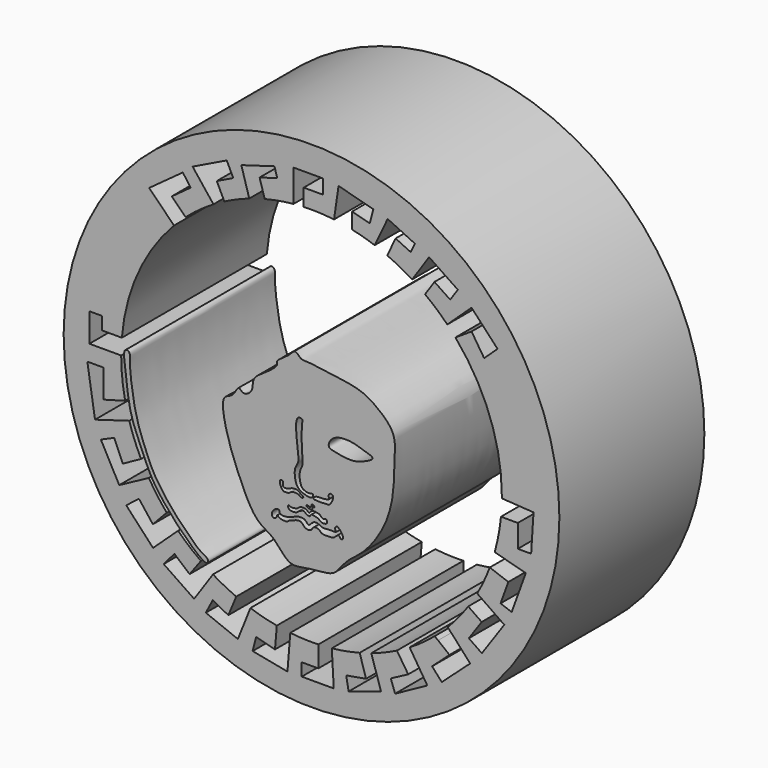
from build123d import *

# Parameters (mm, degrees)
F0_R     = 34.1949765135
F0_R_2   = 32.7536440746
F1_DEPTH = 25


with BuildPart() as f1:
    # F0 (on Front) → F1 (new body)
    with BuildSketch(Plane.XZ):
        with Locations((-32.7967256308, 36.7137230933)):
            Circle(F0_R)
        with Locations((-32.7967256308, 36.7137230933)):
            Circle(F0_R_2, mode=Mode.SUBTRACT)
        with Locations((-32.7967256308, 36.7137230933)):
            Circle(F0_R_2)
        with BuildLine():
            ThreePointArc((-12.9458860512, 53.9010168476), (-8.1929322363, 45.8849961355), (-6.5391762666, 36.7137230933))
            ThreePointArc((-6.5391762666, 36.7137230933), (-6.5395210878, 36.5791563783), (-6.5405555424, 36.4445931976))
            Line((-6.5405555424, 36.4445931976), (-2.1720672958, 36.1668281257))
            Line((-2.1720672958, 36.1668281257), (-2.4984774645, 31.0332849622))
            Line((-2.4984774645, 31.0332849622), (-4.3382442508, 31.0332849622))
            Line((-4.3382442508, 31.0332849622), (-4.3382442508, 34.1763430074))
            Line((-4.3382442508, 34.1763430074), (-6.662062807, 34.1763430074))
            ThreePointArc((-6.662062807, 34.1763430074), (-6.990579769, 31.8658643525), (-7.5229469318, 29.5936803343))
            Line((-7.5229469318, 29.5936803343), (-3.2360210522, 28.4420203526))
            Line((-3.2360210522, 28.4420203526), (-5.1859638011, 23.078868908))
            Line((-5.1859638011, 23.078868908), (-6.7154592647, 23.634965192))
            Line((-6.7154592647, 23.634965192), (-5.6438855827, 26.5822373331))
            Line((-5.6438855827, 26.5822373331), (-8.2039227659, 27.5130195408))
            ThreePointArc((-8.2039227659, 27.5130195408), (-8.9988383065, 25.6178023332), (-9.9395436319, 23.790560567))
            Line((-9.9395436319, 23.790560567), (-6.2026623989, 21.2010561993))
            Line((-6.2026623989, 21.2010561993), (-9.2989061714, 16.7329056952))
            Line((-9.2989061714, 16.7329056952), (-11.0925380819, 17.9758185352))
            Line((-11.0925380819, 17.9758185352), (-9.3234190717, 20.5288119614))
            Line((-9.3234190717, 20.5288119614), (-11.1766436054, 21.8130200283))
            ThreePointArc((-11.1766436054, 21.8130200283), (-12.5225438969, 20.0279071518), (-14.0154172607, 18.3637543053))
            Line((-14.0154172607, 18.3637543053), (-13.302420519, 17.6172430732))
            Line((-13.302420519, 17.6172430732), (-10.9127026212, 14.965637044))
            Line((-10.9127026212, 14.965637044), (-14.8275454959, 11.4374469654))
            Line((-14.8275454959, 11.4374469654), (-16.1638706923, 12.9202194512))
            Line((-16.1638706923, 12.9202194512), (-13.7603031471, 15.0863965973))
            Line((-13.7603031471, 15.0863965973), (-15.3330070898, 16.3326896727))
            Line((-15.3330070898, 16.3326896727), (-15.8072759228, 16.6932960941))
            ThreePointArc((-15.8072759228, 16.6932960941), (-17.4850135025, 15.3827510031), (-19.2634064807, 14.2124304328))
            Line((-19.2634064807, 14.2124304328), (-16.8166905642, 10.3682847694))
            Line((-16.8166905642, 10.3682847694), (-21.2677381933, 7.935045287))
            Line((-21.2677381933, 7.935045287), (-21.8612123281, 9.596769698))
            Line((-21.8612123281, 9.596769698), (-19.4576457143, 10.8727375045))
            Line((-19.4576457143, 10.8727375045), (-21.015693657, 13.2474454966))
            ThreePointArc((-21.015693657, 13.2474454966), (-22.7570808568, 12.4513153103), (-24.551854668, 11.7842024116))
            Line((-24.551854668, 11.7842024116), (-23.1965258718, 7.5492872857))
            Line((-23.1965258718, 7.5492872857), (-27.6817677887, 6.1138446977))
            Line((-27.6817677887, 6.1138446977), (-28.0036590993, 7.9647181556))
            Line((-28.0036590993, 7.9647181556), (-25.2736825496, 8.4394970909))
            Line((-25.2736825496, 8.4394970909), (-26.1521492418, 11.3107999697))
            ThreePointArc((-26.1521492418, 11.3107999697), (-28.0613112726, 10.8867072094), (-29.9967428847, 10.6058891112))
            Line((-29.9967428847, 10.6058891112), (-29.7287367284, 5.8174594305))
            Line((-29.7287367284, 5.8174594305), (-34.1453254223, 5.8174594305))
            Line((-34.1453254223, 5.8174594305), (-34.1453254223, 7.5641319712))
            Line((-34.1453254223, 7.5641319712), (-31.8516096963, 7.5641319712))
            Line((-31.8516096963, 7.5641319712), (-31.8516096963, 10.473188524))
            ThreePointArc((-31.8516096963, 10.473188524), (-33.7911474702, 10.4750107808), (-35.7252595021, 10.6199961081))
            Line((-35.7252595021, 10.6199961081), (-36.1165702343, 5.7925069705))
            Line((-36.1165702343, 5.7925069705), (-40.9182250916, 6.7195070139))
            Line((-40.9182250916, 6.7195070139), (-40.4333472252, 8.5871834308))
            Line((-40.4333472252, 8.5871834308), (-37.8382913768, 7.913466543))
            Line((-37.8382913768, 7.913466543), (-37.5853974553, 10.8965288079))
            ThreePointArc((-37.5853974553, 10.8965288079), (-39.4234631249, 11.3061405873), (-41.2274438302, 11.8464375709))
            Line((-41.2274438302, 11.8464375709), (-42.9535470903, 7.5142271817))
            Line((-42.9535470903, 7.5142271817), (-47.3793707976, 9.2776292429))
            Line((-47.3793707976, 9.2776292429), (-46.4219413698, 11.1073832959))
            Line((-46.4219413698, 11.1073832959), (-44.2760288715, 9.9845221266))
            Line((-44.2760288715, 9.9845221266), (-43.1815581734, 12.5970452194))
            ThreePointArc((-43.1815581734, 12.5970452194), (-44.8149768282, 13.3680481883), (-46.3915254221, 14.2495223008))
            Line((-46.3915254221, 14.2495223008), (-48.9920452237, 10.4336664081))
            Line((-48.9920452237, 10.4336664081), (-53.1931605212, 13.2967419086))
            Line((-53.1931605212, 13.2967419086), (-51.7118647695, 15.0249209255))
            Line((-51.7118647695, 15.0249209255), (-49.6158562601, 13.2283428684))
            Line((-49.6158562601, 13.2283428684), (-48.0536680635, 15.3435427895))
            ThreePointArc((-48.0536680635, 15.3435427895), (-49.6811814234, 16.6046691325), (-51.2048782248, 17.9894389498))
            Line((-51.2048782248, 17.9894389498), (-54.6562559903, 14.7753963247))
            Line((-54.6562559903, 14.7753963247), (-58.3576673641, 18.7501316989))
            Line((-58.3576673641, 18.7501316989), (-56.6025488079, 20.1152246445))
            Line((-56.6025488079, 20.1152246445), (-54.6812079847, 17.6449306309))
            Line((-54.6812079847, 17.6449306309), (-52.774364751, 19.6739803196))
            ThreePointArc((-52.774364751, 19.6739803196), (-54.0759133064, 21.3301256441), (-55.2405247964, 23.0852683892))
            Line((-55.2405247964, 23.0852683892), (-59.3223683536, 20.8887532353))
            Line((-59.3223683536, 20.8887532353), (-61.8583832738, 25.6014983966))
            Line((-61.8583832738, 25.6014983966), (-60.0210390985, 26.4032483101))
            Line((-60.0210390985, 26.4032483101), (-58.8233210146, 23.6584767699))
            Line((-58.8233210146, 23.6584767699), (-56.3163112071, 25.0394782385))
            ThreePointArc((-56.3163112071, 25.0394782385), (-57.2156356771, 27.0609654167), (-57.9415845847, 29.1509876888))
            Line((-57.9415845847, 29.1509876888), (-62.6629367471, 27.7536232024))
            Line((-62.6629367471, 27.7536232024), (-63.7215748429, 34.4583652914))
            Line((-63.7215748429, 34.4583652914), (-61.4631399512, 34.4583652914))
            Line((-61.4631399512, 34.4583652914), (-61.4631399512, 30.576672405))
            Line((-61.4631399512, 30.576672405), (-58.5089978876, 31.3903826007))
            ThreePointArc((-58.5089978876, 31.3903826007), (-58.9178927147, 34.0409850245), (-59.0542743658, 36.7194712078))
            Line((-59.0542743658, 36.7194712078), (-63.4392723441, 36.7194712078))
            Line((-63.4392723441, 36.7194712078), (-63.4392723441, 40.6690761447))
            Line((-63.4392723441, 40.6690761447), (-61.6748668253, 40.6690761447))
            Line((-61.6748668253, 40.6690761447), (-61.6748668253, 38.9046706259))
            Line((-61.6748668253, 38.9046706259), (-58.9627082708, 38.9046706259))
            ThreePointArc((-58.9627082708, 38.9046706259), (-56.7324686325, 47.5090510441), (-51.7592851425, 54.8763285059))
            Line((-51.7592851425, 54.8763285059), (-55.200556481, 58.3204711803))
            Line((-55.200556481, 58.3204711803), (-50.5542003778, 61.7110594841))
            Line((-50.5542003778, 61.7110594841), (-49.4651794434, 60.2186992764))
            Line((-49.4651794434, 60.2186992764), (-52.0764999092, 58.313138783))
            Line((-52.0764999092, 58.313138783), (-50.1641393275, 56.4071697215))
            ThreePointArc((-50.1641393275, 56.4071697215), (-48.3086086029, 57.8995765165), (-46.3255045006, 59.2177458648))
            Line((-46.3255045006, 59.2177458648), (-49.1968827695, 62.8634490413))
            Line((-49.1968827695, 62.8634490413), (-44.4910109347, 65.1434195328))
            Line((-44.4910109347, 65.1434195328), (-43.5953817757, 63.2948359437))
            Line((-43.5953817757, 63.2948359437), (-45.8657890558, 62.1948353946))
            Line((-45.8657890558, 62.1948353946), (-44.8279442318, 60.0527178785))
            ThreePointArc((-44.8279442318, 60.0527178785), (-43.133837622, 60.8508938946), (-41.3871490509, 61.5262909586))
            Line((-41.3871490509, 61.5262909586), (-42.4781292677, 65.2296096087))
            Line((-42.4781292677, 65.2296096087), (-37.9126475063, 66.5745790138))
            Line((-37.9126475063, 66.5745790138), (-37.5259921614, 65.2620822996))
            Line((-37.5259921614, 65.2620822996), (-39.9600294014, 64.5450264028))
            Line((-39.9600294014, 64.5450264028), (-39.2585181415, 62.1637552378))
            ThreePointArc((-39.2585181415, 62.1637552378), (-37.2835981417, 62.5850754677), (-35.2821404363, 62.8533790179))
            Line((-35.2821404363, 62.8533790179), (-35.2821404363, 67.2763214144))
            Line((-35.2821404363, 67.2763214144), (-31.1859305948, 67.2763214144))
            Line((-31.1859305948, 67.2763214144), (-31.1859305948, 65.3001889586))
            Line((-31.1859305948, 65.3001889586), (-33.867828548, 65.3001889586))
            Line((-33.867828548, 65.3001889586), (-33.867828548, 62.9494170454))
            ThreePointArc((-33.867828548, 62.9494170454), (-31.7762767809, 62.9514360797), (-29.6911997265, 62.7869777323))
            Line((-29.6911997265, 62.7869777323), (-29.0686432272, 67.0645982027))
            Line((-29.0686432272, 67.0645982027), (-24.2694579065, 65.7942220569))
            Line((-24.2694579065, 65.7942220569), (-24.7649760555, 63.9222698524))
            Line((-24.7649760555, 63.9222698524), (-27.1936658116, 64.5651601193))
            Line((-27.1936658116, 64.5651601193), (-27.1936658116, 62.3664932999))
            ThreePointArc((-27.1936658116, 62.3664932999), (-25.6240084727, 61.9726032581), (-24.0815973647, 61.482765019))
            Line((-24.0815973647, 61.482765019), (-22.2933217883, 65.2620822996))
            Line((-22.2933217883, 65.2620822996), (-18.5392699624, 63.4857616854))
            Line((-18.5392699624, 63.4857616854), (-19.1168347127, 62.2651441977))
            Line((-19.1168347127, 62.2651441977), (-21.1958804649, 63.2488950884))
            Line((-21.1958804649, 63.2488950884), (-22.3524104995, 60.8047002434))
            ThreePointArc((-22.3524104995, 60.8047002434), (-20.6010427418, 59.9672006285), (-18.916338573, 59.0025937183))
            Line((-18.916338573, 59.0025937183), (-16.5766458958, 62.4771378934))
            Line((-16.5766458958, 62.4771378934), (-12.6148731284, 59.809354649))
            Line((-12.6148731284, 59.809354649), (-13.6633282611, 58.2523537191))
            Line((-13.6633282611, 58.2523537191), (-15.8335558702, 59.7137441601))
            Line((-15.8335558702, 59.7137441601), (-17.1314086546, 57.7863769994))
            ThreePointArc((-17.1314086546, 57.7863769994), (-15.5471046975, 56.5104267651), (-14.066331357, 55.1156585611))
            Line((-14.066331357, 55.1156585611), (-10.718818754, 58.2425631583))
            Line((-10.718818754, 58.2425631583), (-7.1312061403, 54.4018388682))
            Line((-7.1312061403, 54.4018388682), (-8.9801826624, 52.6747137242))
            Line((-8.9801826624, 52.6747137242), (-10.718818754, 55.3489364684))
            Line((-10.718818754, 55.3489364684), (-12.9458860512, 53.9010168476))
        make_face(mode=Mode.SUBTRACT)
    extrude(amount=F1_DEPTH)


with BuildPart() as f1b:
    # F0 (on Front) → F1, piece 2 (new body)
    with BuildSketch(Plane.XZ):
        with BuildLine():
            add(Edge.make_bspline(
                [(-57.9822808504, 37.5016778708), (-58.1168935723, 37.6492809264), (-58.8855050451, 37.7713758907), (-58.4028495271, 34.877948286), (-58.1621445033, 32.2826350432), (-57.6660737268, 29.6695744331), (-56.6997068893, 27.3113254185), (-55.6976629614, 25.0630160265), (-54.5191115676, 22.2787455027), (-50.6099020178, 17.7194639713), (-47.1228553298, 14.7996385895), (-46.9808014833, 15.9849277901), (-48.2220691184, 16.3989989411), (-49.9024312315, 18.1995399342), (-51.6349373042, 19.7777836772), (-54.2338614689, 23.1429440708), (-55.2538052772, 25.2886950598), (-56.727444624, 28.9590278203), (-57.2921205277, 31.4233101583), (-57.716311795, 34.2218649653), (-57.8869672816, 36.1740918611), (-57.7774345061, 37.2770635406), (-57.9822808504, 37.5016778708)],
                knots=[0, 0, 0, 0, 0.0230852232, 0.072862592, 0.1276976424, 0.1793407312, 0.2303863944, 0.2797939147, 0.334821419, 0.417146937, 0.4781276268, 0.4997383602, 0.534292142, 0.5840707965, 0.634829385, 0.6995950934, 0.7507579179, 0.8132503276, 0.865409986, 0.9187417021, 0.9648701586, 1, 1, 1, 1], degree=3))
        make_face()
    extrude(amount=F1_DEPTH)


with BuildPart() as f1c:
    # F0 (on Front) → F1, piece 3 (new body)
    with BuildSketch(Plane.XZ):
        with BuildLine():
            add(Edge.make_bspline(
                [(-21.5745288879, 39.4650399685), (-21.1795454561, 38.5399337596), (-21.4157349087, 36.2146815264), (-21.3676152952, 31.3859713194), (-23.011632842, 26.800680971), (-25.7681212269, 23.4159995117), (-27.6695314862, 22.2281273949), (-29.0136424946, 20.5704084252), (-29.9178866513, 19.4255645273), (-33.3311647851, 19.3884013139), (-35.9665803851, 18.542325867), (-37.7881983734, 21.4486887935), (-39.7597219758, 22.277147973), (-41.2641100441, 23.9693377514), (-42.9335004763, 27.6849185713), (-44.5479789574, 31.7739807301), (-45.4256322233, 36.6011597829), (-43.557500045, 36.5929194481), (-42.8990267144, 38.5335644051), (-42.239432329, 37.2830403415), (-40.8114067244, 38.2153867809), (-40.9874123175, 39.508084105), (-40.3365873059, 40.4448379309), (-38.6973094314, 41.4098406552), (-37.3366869729, 42.5496847049), (-37.7828257491, 43.1324329789), (-35.9259369138, 44.0700771393), (-35.0414473632, 45.3935709705), (-34.3250855496, 44.2304356897), (-33.2018295135, 44.3457644644), (-31.0693055053, 44.0342622095), (-28.3780545213, 43.6707572476), (-25.8486137098, 43.2357217884), (-23.6752093643, 41.9303542086), (-21.970734153, 40.3930078814), (-21.5745288879, 39.4650399685)],
                knots=[0, 0, 0, 0, 0.0363854623, 0.0813033961, 0.1267672052, 0.1687541576, 0.1993837951, 0.2283917656, 0.2520994109, 0.289080653, 0.3215871455, 0.3567600275, 0.3864049615, 0.4162054819, 0.4568651777, 0.5023289948, 0.5434193449, 0.5668566845, 0.591097867, 0.6087434787, 0.6318126685, 0.6542821308, 0.6750265581, 0.7042114107, 0.7297743316, 0.7426205234, 0.7708864575, 0.7941527599, 0.8135515625, 0.8343869122, 0.864330442, 0.8984903326, 0.9308772226, 0.9635019837, 1, 1, 1, 1], degree=3))
        make_face()
        with BuildLine():
            add(Edge.make_bspline(
                [(-37.7450846136, 25.0003207475), (-37.9798654227, 24.8821459261), (-38.3397074463, 24.452778237), (-38.1912443977, 23.7072384952), (-37.5791050688, 23.9298943851), (-37.569790394, 24.4831844223), (-37.2732518674, 24.0631042151), (-36.8799385616, 23.9955539414), (-36.6404731792, 23.9604554374), (-36.5200348193, 23.9735800779), (-36.1596318047, 23.9347045564), (-36.0037949704, 24.1712552506), (-35.4858773196, 24.3441866474), (-35.0138220931, 24.5498915396), (-34.4016983999, 24.7008314584), (-34.0239492999, 24.4284784484), (-33.8457353751, 24.1425406979), (-33.4623717082, 23.931795019), (-33.1152676899, 23.9416721443), (-32.7992010898, 24.0096157978), (-32.6992327086, 24.3804127481), (-32.3063270334, 24.6141737943), (-31.8717998305, 24.499817583), (-31.6465009581, 24.3561613358), (-31.447822529, 24.109685215), (-31.0011036831, 24.014302887), (-30.5214923173, 24.0365080046), (-29.7114020887, 24.0658845521), (-29.5630457236, 24.2846639366), (-29.4256582954, 24.3805167599), (-29.0145946602, 24.8142634091), (-28.8524551687, 24.2834888465), (-28.5083975256, 24.2481912344), (-28.3151868547, 24.6953365105), (-29.1182264811, 25.6936822656), (-29.4357226821, 25.593896157), (-29.6508260107, 25.2386245477), (-29.1779711809, 24.8091452613), (-30.2359874028, 24.9235653439), (-30.8736980943, 24.8502918759), (-31.267260726, 24.8025432639), (-31.714233273, 25.0967210244), (-32.592019065, 25.3020187156), (-33.1928811737, 24.2238303667), (-33.6737962232, 25.2811951281), (-34.9077938776, 25.0596460003), (-35.2069521179, 24.8956557826), (-35.5239671312, 24.7103011612), (-36.099804016, 24.5751415112), (-36.5904476757, 24.4722586293), (-37.2774949584, 24.596220717), (-37.1847602174, 25.1332984263), (-37.5650476756, 25.0909407308), (-37.7450846136, 25.0003207475)],
                knots=[0, 0, 0, 0, 0.0260771344, 0.0478776216, 0.0678238242, 0.0852405662, 0.1018480674, 0.1211100921, 0.135075223, 0.1455086603, 0.162195495, 0.1771948064, 0.1983956246, 0.2202698677, 0.2429226296, 0.2619766597, 0.2790437821, 0.2979425059, 0.3153384994, 0.3309879651, 0.3482716603, 0.3673255959, 0.3865051417, 0.4016117665, 0.4176475252, 0.4367225426, 0.4581611221, 0.48405697, 0.4978021613, 0.5105584141, 0.529942067, 0.5482322891, 0.5630887657, 0.5808089993, 0.6127218465, 0.6275222286, 0.6448059484, 0.6619024274, 0.6874785954, 0.7128175733, 0.7302065684, 0.7514073365, 0.7779013426, 0.8046224562, 0.8300397153, 0.8613398726, 0.8787566386, 0.8960048289, 0.9184048886, 0.9402123951, 0.9625108801, 0.9800032744, 1, 1, 1, 1], degree=3))
        make_face(mode=Mode.SUBTRACT)
        with BuildLine():
            add(Edge.make_bspline(
                [(-36.0408313572, 25.9362626821), (-36.0629696816, 25.8268395434), (-35.927099245, 25.4539372715), (-35.1786410754, 25.4437180692), (-34.8055959503, 25.5145718463), (-34.5401565714, 25.8125674571), (-34.3176739633, 25.8929466966), (-34.2047916304, 25.9515694691), (-33.7764571313, 26.1125076181), (-33.5941936782, 25.7634989407), (-33.3044323242, 25.6522447399), (-33.0846034701, 25.6691248779), (-33.0057911555, 25.6238495314), (-32.8948532603, 25.9841098401), (-32.5165725291, 25.9166675973), (-31.8628839829, 25.8211051109), (-31.5249313882, 25.4337377967), (-31.1651346741, 25.3850374014), (-30.6662305613, 25.4588454622), (-30.6105972656, 25.777152715), (-30.8055252732, 26.1752968153), (-31.2147310245, 25.8220698409), (-31.5296682353, 26.2109096177), (-31.7602934376, 26.3783618781), (-32.1952818075, 26.4375585383), (-32.4677433344, 26.4900822219), (-32.8756902686, 26.3137341513), (-32.9820163944, 26.1741958011), (-33.1784309262, 25.9384405038), (-33.3717981531, 26.2899255735), (-33.6643177192, 26.3842840997), (-33.9582721383, 26.3866593835), (-34.3013606712, 26.4588379593), (-34.5937252634, 26.1483121181), (-34.8383947485, 25.9867751648), (-35.0824598956, 25.9742177929), (-35.2573968485, 25.9061470734), (-35.5124563193, 25.927440919), (-35.5640739745, 25.9139911548), (-35.7709184525, 25.9816058649), (-35.9279339925, 26.107715809), (-36.0264752884, 26.0072204516), (-36.0408313572, 25.9362626821)],
                knots=[0, 0, 0, 0, 0.0289759678, 0.06712991, 0.0957275283, 0.1238734321, 0.1452962588, 0.1622894334, 0.1906639111, 0.2172369937, 0.2425953411, 0.2635901995, 0.2744200764, 0.2987858599, 0.3253588814, 0.3626935177, 0.3944566292, 0.4217975807, 0.4524359702, 0.4764371437, 0.5024179979, 0.5305155938, 0.5598811533, 0.5850664787, 0.6145333246, 0.6393612696, 0.6685987135, 0.6889618084, 0.7099333648, 0.7352916805, 0.7606500279, 0.7855200019, 0.8114886828, 0.840446934, 0.8653169862, 0.8871641054, 0.907653242, 0.9299792551, 0.940808771, 0.9616864852, 0.9812099153, 1, 1, 1, 1], degree=3))
        make_face(mode=Mode.SUBTRACT)
        with BuildLine():
            add(Edge.make_bspline(
                [(-37.1634699404, 28.5505466163), (-37.1647139254, 28.4176473179), (-37.1129340317, 28.0517920632), (-36.6909519116, 27.3929598784), (-36.214438325, 27.5562448232), (-35.9440349419, 27.4480127372), (-35.5747271068, 27.8519476706), (-35.097842549, 27.8697172814), (-34.7412984703, 27.8639360914), (-34.4156447252, 27.7228883811), (-34.322578919, 27.5021486649), (-33.7868451095, 27.5952674059), (-34.1146957763, 27.9194653767), (-34.3064668948, 27.9459158494), (-34.5906660947, 28.2548897408), (-34.9028970375, 28.3333337472), (-35.5121665933, 28.3105065437), (-35.7652944037, 28.109195024), (-36.2749442376, 27.9702516776), (-36.8043999348, 27.9726927382), (-36.692268159, 28.5992883549), (-36.7961854135, 28.792856132), (-37.1387812452, 28.7882098707), (-37.1626671162, 28.6363151579), (-37.1634699404, 28.5505466163)],
                knots=[0, 0, 0, 0, 0.0530015307, 0.1156190266, 0.164209967, 0.2018486264, 0.2540847226, 0.3054635053, 0.3507662916, 0.3935514405, 0.4286141422, 0.47273892, 0.5132074481, 0.5483058689, 0.5944192189, 0.6379181588, 0.6947990142, 0.7375843845, 0.7925070862, 0.8399803902, 0.8940319155, 0.9270981205, 0.9657946728, 1, 1, 1, 1], degree=3))
        make_face(mode=Mode.SUBTRACT)
        with BuildLine():
            add(Edge.make_bspline(
                [(-33.4844514728, 26.9001442939), (-33.5313669483, 26.862460417), (-33.4346821407, 26.5176703245), (-32.5361102847, 26.5162818765), (-32.6725592392, 26.8362012702), (-32.5478738763, 26.9568815038), (-32.3388444458, 26.8832550421), (-32.5028784031, 27.2660696892), (-32.8101684497, 27.2151566701), (-32.7882231041, 26.963664027), (-32.9172671834, 26.7775344596), (-33.1525904373, 26.8087446367), (-33.4331671224, 26.9413373784), (-33.4844514728, 26.9001442939)],
                knots=[0, 0, 0, 0, 0.0949872292, 0.2478882433, 0.331144192, 0.3984828781, 0.4628869757, 0.5588982926, 0.6445900121, 0.7289163896, 0.8078473577, 0.8961673459, 1, 1, 1, 1], degree=3))
        make_face(mode=Mode.SUBTRACT)
        with BuildLine():
            add(Edge.make_bspline(
                [(-34.6861667931, 37.0585247874), (-35.0946194936, 36.6265945578), (-34.7639783478, 33.8509375584), (-34.6473924639, 32.9359544381), (-34.5244311996, 31.7508606962), (-34.9290039309, 31.1600044335), (-35.145947977, 30.6603014399), (-35.0994004991, 29.4805690427), (-34.7129587769, 28.4252014048), (-33.6389393905, 28.028500287), (-32.7306913415, 27.8289408585), (-32.4415155924, 28.598100572), (-33.0666634598, 28.3913801461), (-33.5802508774, 28.4616058272), (-34.1203249395, 28.6909466683), (-34.3749058968, 29.3353646983), (-34.5275775461, 30.3921405369), (-34.179407483, 31.2502874346), (-33.989758819, 31.6238819127), (-34.0771495469, 32.7467310564), (-34.1786727632, 34.4231570061), (-34.1847070168, 36.4707361493), (-33.9301324849, 37.1384733881), (-34.5074316679, 37.2475334624), (-34.6861667931, 37.0585247874)],
                knots=[0, 0, 0, 0, 0.0831558191, 0.1348992207, 0.1839752247, 0.2229937986, 0.2574257473, 0.30848762, 0.3577486348, 0.4079517761, 0.4513981004, 0.4835966035, 0.5149643765, 0.550747199, 0.5854020948, 0.6237992411, 0.6733459804, 0.7180823229, 0.7480741991, 0.7961714693, 0.8606107374, 0.929025021, 0.9636117824, 1, 1, 1, 1], degree=3))
        make_face(mode=Mode.SUBTRACT)
        with BuildLine():
            add(Edge.make_bspline(
                [(-32.2742238641, 28.2711610198), (-32.4408443274, 28.1849170406), (-32.6781363028, 27.867291994), (-32.0514005923, 27.8701081461), (-31.784780087, 27.8497528358), (-31.2259520171, 27.8340852502), (-30.7745350668, 27.9187566258), (-30.3298258869, 27.8550468577), (-30.1678069396, 28.1734024572), (-29.8839685076, 28.4563453942), (-29.7613128724, 29.1910107717), (-29.9993579202, 29.2549250558), (-30.2345053405, 29.3806780387), (-30.5165746985, 29.0239971185), (-30.3691606637, 28.7981425944), (-30.3738475599, 28.618298714), (-30.4653692658, 28.4794587051), (-30.7551502734, 28.4556780356), (-31.3416333396, 28.3449332134), (-32.0182974507, 28.4036304166), (-32.2742238641, 28.2711610198)],
                knots=[0, 0, 0, 0, 0.0576199621, 0.1172140618, 0.168909876, 0.235326471, 0.2991843455, 0.3562685789, 0.4059473534, 0.4659979033, 0.5393809422, 0.5791163334, 0.6225870052, 0.6771140286, 0.7221397275, 0.7594627955, 0.7935336895, 0.8397990207, 0.9114966436, 1, 1, 1, 1], degree=3))
        make_face(mode=Mode.SUBTRACT)
        with BuildLine():
            add(Edge.make_bspline(
                [(-30.2064213902, 35.7509665191), (-29.9569895853, 36.1180442478), (-29.0584161076, 36.6824859282), (-27.0257761824, 36.577257723), (-25.8002866098, 36.1050138514), (-23.676688138, 35.5747844361), (-25.804001221, 34.6218748577), (-26.9250319164, 34.2693608102), (-28.4540966478, 34.3477908063), (-29.2783491986, 34.5969176108), (-30.6015590324, 34.7193064442), (-30.401998951, 35.4631436938), (-30.2064213902, 35.7509665191)],
                knots=[0, 0, 0, 0, 0.1026527008, 0.2233002008, 0.3319345407, 0.4327622361, 0.5391920788, 0.6425369113, 0.7457673532, 0.8308614709, 0.9195108064, 1, 1, 1, 1], degree=3))
        make_face(mode=Mode.SUBTRACT)
    extrude(amount=F1_DEPTH)


solid = Compound([f1.part, f1b.part, f1c.part])
